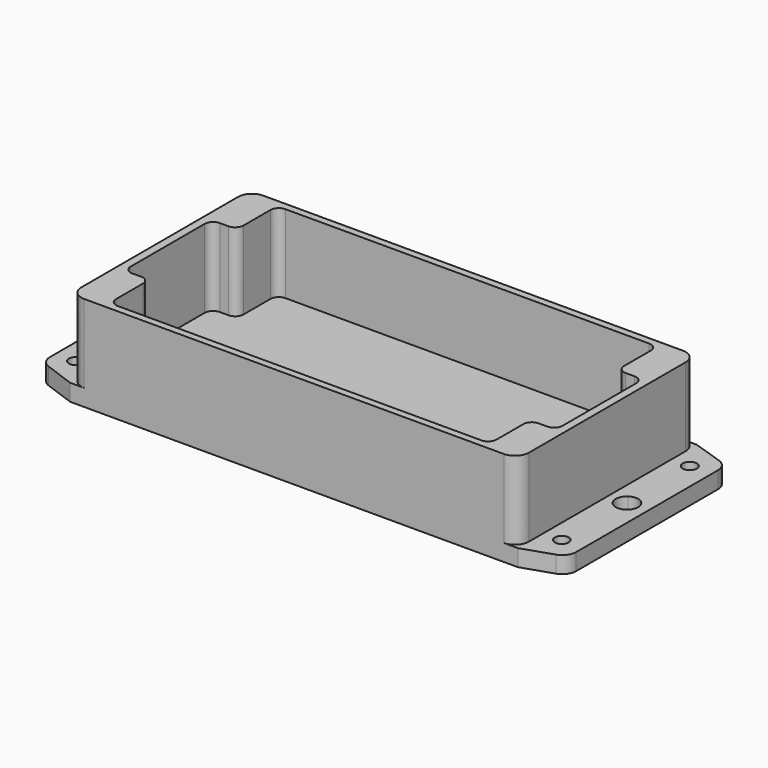
from build123d import *

# Parameters (mm, degrees)
F0_R     = 2.4734326525
F0_R_2   = 2.5209595833
F1_DEPTH = 6
F2_DEPTH = 34
F3_DEPTH = 6


with BuildPart() as f1:
    # F0 (on Top) → F1 (new body)
    with BuildSketch(Plane.XY):
        with BuildLine():
            ThreePointArc((80, 35), (78.5355339059, 38.5355339059), (75, 40))
            Line((75, 40), (-75, 40))
            ThreePointArc((-75, 40), (-78.5355339059, 38.5355339059), (-80, 35))
            Line((-80, 35), (-80, -35))
            ThreePointArc((-80, -35), (-78.5355339059, -38.5355339059), (-75, -40))
            Line((-75, -40), (75, -40))
            ThreePointArc((75, -40), (78.5355339059, -38.5355339059), (80, -35))
            Line((80, -35), (80, 35))
        make_face()
        with BuildLine():
            ThreePointArc((-68, 34.4683335721), (-67.1213203436, 36.5896539157), (-65, 37.4683335721))
            Line((-65, 37.4683335721), (0, 37.4683335721))
            Line((0, 37.4683335721), (65, 37.4683335721))
            ThreePointArc((65, 37.4683335721), (67.1213203436, 36.5896539157), (68, 34.4683335721))
            Line((68, 34.4683335721), (68, 22.4683335721))
            ThreePointArc((68, 22.4683335721), (68.8786796564, 20.3470132286), (71, 19.4683335721))
            Line((71, 19.4683335721), (74.1739631891, 19.4683335721))
            ThreePointArc((74.1739631891, 19.4683335721), (76.2952835327, 18.5896539157), (77.1739631891, 16.4683335721))
            Line((77.1739631891, 16.4683335721), (77.1739631891, -16.4851338565))
            ThreePointArc((77.1739631891, -16.4851338565), (76.2952835327, -18.6064542001), (74.1739631891, -19.4851338565))
            Line((74.1739631891, -19.4851338565), (71, -19.4851338565))
            ThreePointArc((71, -19.4851338565), (68.8786796564, -20.363813513), (68, -22.4851338565))
            Line((68, -22.4851338565), (68, -34.4851338565))
            ThreePointArc((68, -34.4851338565), (67.1213203436, -36.6064542001), (65, -37.4851338565))
            Line((65, -37.4851338565), (0, -37.4851338565))
            Line((0, -37.4851338565), (-65, -37.4851338565))
            ThreePointArc((-65, -37.4851338565), (-67.1213203436, -36.6064542001), (-68, -34.4851338565))
            Line((-68, -34.4851338565), (-68, -22.5461551776))
            ThreePointArc((-68, -22.5461551776), (-68.9001431644, -20.4035863292), (-71.0604008466, -19.5467632829))
            Line((-71.0604008466, -19.5467632829), (-74.0273144216, -19.6065100909))
            ThreePointArc((-74.0273144216, -19.6065100909), (-76.1875721038, -18.7496870446), (-77.0877152681, -16.6071181963))
            Line((-77.0877152681, -16.6071181963), (-77.0877152681, 16.4683335721))
            ThreePointArc((-77.0877152681, 16.4683335721), (-76.2090356117, 18.5896539157), (-74.0877152681, 19.4683335721))
            Line((-74.0877152681, 19.4683335721), (-71, 19.4683335721))
            ThreePointArc((-71, 19.4683335721), (-68.8786796564, 20.3470132286), (-68, 22.4683335721))
            Line((-68, 22.4683335721), (-68, 34.4683335721))
        make_face(mode=Mode.SUBTRACT)
        with BuildLine():
            Line((80, 40), (75, 40))
            ThreePointArc((75, 40), (78.5355339059, 38.5355339059), (80, 35))
            Line((80, 35), (80, -35))
            ThreePointArc((80, -35), (78.5355339059, -38.5355339059), (75, -40))
            Line((75, -40), (80, -40))
            Line((80, -40), (90.8113707836, -36.4140822894))
            ThreePointArc((90.8113707836, -36.4140822894), (93.2913283913, -34.5948870007), (94.2372945148, -31.6683174512))
            Line((94.2372945148, -31.6683174512), (94.2372945148, 31.6683174512))
            ThreePointArc((94.2372945148, 31.6683174512), (93.2913283913, 34.5948870007), (90.8113707836, 36.4140822894))
            Line((90.8113707836, 36.4140822894), (80, 40))
        make_face()
        with Locations((86.5106463432, -28.475206584)):
            Circle(F0_R, mode=Mode.SUBTRACT)
        with BuildLine():
            ThreePointArc((90.7961837325, 0.3213284013), (90.3221869675, -1.5701075157), (89.0122309327, -3.0144821029))
            ThreePointArc((89.0122309327, -3.0144821029), (86.7853939533, -3.6894613779), (84.5585569739, -3.0144821029))
            ThreePointArc((84.5585569739, -3.0144821029), (82.7746041741, 0.3213284013), (84.5585569739, 3.6571389056))
            ThreePointArc((84.5585569739, 3.6571389056), (86.7853939533, 4.3321181805), (89.0122309327, 3.6571389056))
            ThreePointArc((89.0122309327, 3.6571389056), (90.3221869675, 2.2127643183), (90.7961837325, 0.3213284013))
        make_face(mode=Mode.SUBTRACT)
        with Locations((86.4890247583, 28.7518498895)):
            Circle(F0_R_2, mode=Mode.SUBTRACT)
        with BuildLine():
            ThreePointArc((-80, 35), (-78.5355339059, 38.5355339059), (-75, 40))
            Line((-75, 40), (-80, 40))
            Line((-80, 40), (-90.8064321274, 36.0946163646))
            ThreePointArc((-90.8064321274, 36.0946163646), (-93.1995248699, 34.2648146936), (-94.1070315729, 31.392272507))
            Line((-94.1070315729, 31.392272507), (-94.1070315729, -31.392272507))
            ThreePointArc((-94.1070315729, -31.392272507), (-93.1995248699, -34.2648146936), (-90.8064321274, -36.0946163646))
            Line((-90.8064321274, -36.0946163646), (-80, -40))
            Line((-80, -40), (-75, -40))
            ThreePointArc((-75, -40), (-78.5355339059, -38.5355339059), (-80, -35))
            Line((-80, -35), (-80, 35))
        make_face()
        with Locations((-86.9296938181, -28.7965349853)):
            Circle(F0_R, mode=Mode.SUBTRACT)
        with BuildLine():
            ThreePointArc((-84.4281092286, -8.2794375271), (-85.0138956662, -9.6936510894), (-86.4281092286, -10.2794375271))
            Line((-86.4281092286, -10.2794375271), (-86.8817831874, -10.2794375271))
            ThreePointArc((-86.8817831874, -10.2794375271), (-88.2959967498, -9.6936510894), (-88.8817831874, -8.2794375271))
            Line((-88.8817831874, -8.2794375271), (-88.8817831874, -3.3358105042))
            ThreePointArc((-88.8817831874, -3.3358105042), (-90.6657359872, 0), (-88.8817831874, 3.3358105042))
            Line((-88.8817831874, 3.3358105042), (-88.8817831874, 8.2794375271))
            ThreePointArc((-88.8817831874, 8.2794375271), (-88.2959967498, 9.6936510894), (-86.8817831874, 10.2794375271))
            Line((-86.8817831874, 10.2794375271), (-86.4281092286, 10.2794375271))
            ThreePointArc((-86.4281092286, 10.2794375271), (-85.0138956662, 9.6936510894), (-84.4281092286, 8.2794375271))
            Line((-84.4281092286, 8.2794375271), (-84.4281092286, 3.3358105042))
            ThreePointArc((-84.4281092286, 3.3358105042), (-83.1181531938, 1.891435917), (-82.6441564288, 0))
            ThreePointArc((-82.6441564288, 0), (-83.1181531938, -1.891435917), (-84.4281092286, -3.3358105042))
            Line((-84.4281092286, -3.3358105042), (-84.4281092286, -8.2794375271))
        make_face(mode=Mode.SUBTRACT)
        with Locations((-86.951315403, 28.4305214882)):
            Circle(F0_R_2, mode=Mode.SUBTRACT)
    extrude(amount=F1_DEPTH)

    # F0 (on Top) → F2 (join)
    with BuildSketch(Plane.XY):
        with BuildLine():
            ThreePointArc((80, 35), (78.5355339059, 38.5355339059), (75, 40))
            Line((75, 40), (-75, 40))
            ThreePointArc((-75, 40), (-78.5355339059, 38.5355339059), (-80, 35))
            Line((-80, 35), (-80, -35))
            ThreePointArc((-80, -35), (-78.5355339059, -38.5355339059), (-75, -40))
            Line((-75, -40), (75, -40))
            ThreePointArc((75, -40), (78.5355339059, -38.5355339059), (80, -35))
            Line((80, -35), (80, 35))
        make_face()
        with BuildLine():
            ThreePointArc((-68, 34.4683335721), (-67.1213203436, 36.5896539157), (-65, 37.4683335721))
            Line((-65, 37.4683335721), (0, 37.4683335721))
            Line((0, 37.4683335721), (65, 37.4683335721))
            ThreePointArc((65, 37.4683335721), (67.1213203436, 36.5896539157), (68, 34.4683335721))
            Line((68, 34.4683335721), (68, 22.4683335721))
            ThreePointArc((68, 22.4683335721), (68.8786796564, 20.3470132286), (71, 19.4683335721))
            Line((71, 19.4683335721), (74.1739631891, 19.4683335721))
            ThreePointArc((74.1739631891, 19.4683335721), (76.2952835327, 18.5896539157), (77.1739631891, 16.4683335721))
            Line((77.1739631891, 16.4683335721), (77.1739631891, -16.4851338565))
            ThreePointArc((77.1739631891, -16.4851338565), (76.2952835327, -18.6064542001), (74.1739631891, -19.4851338565))
            Line((74.1739631891, -19.4851338565), (71, -19.4851338565))
            ThreePointArc((71, -19.4851338565), (68.8786796564, -20.363813513), (68, -22.4851338565))
            Line((68, -22.4851338565), (68, -34.4851338565))
            ThreePointArc((68, -34.4851338565), (67.1213203436, -36.6064542001), (65, -37.4851338565))
            Line((65, -37.4851338565), (0, -37.4851338565))
            Line((0, -37.4851338565), (-65, -37.4851338565))
            ThreePointArc((-65, -37.4851338565), (-67.1213203436, -36.6064542001), (-68, -34.4851338565))
            Line((-68, -34.4851338565), (-68, -22.5461551776))
            ThreePointArc((-68, -22.5461551776), (-68.9001431644, -20.4035863292), (-71.0604008466, -19.5467632829))
            Line((-71.0604008466, -19.5467632829), (-74.0273144216, -19.6065100909))
            ThreePointArc((-74.0273144216, -19.6065100909), (-76.1875721038, -18.7496870446), (-77.0877152681, -16.6071181963))
            Line((-77.0877152681, -16.6071181963), (-77.0877152681, 16.4683335721))
            ThreePointArc((-77.0877152681, 16.4683335721), (-76.2090356117, 18.5896539157), (-74.0877152681, 19.4683335721))
            Line((-74.0877152681, 19.4683335721), (-71, 19.4683335721))
            ThreePointArc((-71, 19.4683335721), (-68.8786796564, 20.3470132286), (-68, 22.4683335721))
            Line((-68, 22.4683335721), (-68, 34.4683335721))
        make_face(mode=Mode.SUBTRACT)
    extrude(amount=F2_DEPTH)

    # F0 (on Top) → F3 (join)
    with BuildSketch(Plane.XY):
        with BuildLine():
            ThreePointArc((80, 35), (78.5355339059, 38.5355339059), (75, 40))
            Line((75, 40), (-75, 40))
            ThreePointArc((-75, 40), (-78.5355339059, 38.5355339059), (-80, 35))
            Line((-80, 35), (-80, -35))
            ThreePointArc((-80, -35), (-78.5355339059, -38.5355339059), (-75, -40))
            Line((-75, -40), (75, -40))
            ThreePointArc((75, -40), (78.5355339059, -38.5355339059), (80, -35))
            Line((80, -35), (80, 35))
        make_face()
        with BuildLine():
            ThreePointArc((-68, 34.4683335721), (-67.1213203436, 36.5896539157), (-65, 37.4683335721))
            Line((-65, 37.4683335721), (0, 37.4683335721))
            Line((0, 37.4683335721), (65, 37.4683335721))
            ThreePointArc((65, 37.4683335721), (67.1213203436, 36.5896539157), (68, 34.4683335721))
            Line((68, 34.4683335721), (68, 22.4683335721))
            ThreePointArc((68, 22.4683335721), (68.8786796564, 20.3470132286), (71, 19.4683335721))
            Line((71, 19.4683335721), (74.1739631891, 19.4683335721))
            ThreePointArc((74.1739631891, 19.4683335721), (76.2952835327, 18.5896539157), (77.1739631891, 16.4683335721))
            Line((77.1739631891, 16.4683335721), (77.1739631891, -16.4851338565))
            ThreePointArc((77.1739631891, -16.4851338565), (76.2952835327, -18.6064542001), (74.1739631891, -19.4851338565))
            Line((74.1739631891, -19.4851338565), (71, -19.4851338565))
            ThreePointArc((71, -19.4851338565), (68.8786796564, -20.363813513), (68, -22.4851338565))
            Line((68, -22.4851338565), (68, -34.4851338565))
            ThreePointArc((68, -34.4851338565), (67.1213203436, -36.6064542001), (65, -37.4851338565))
            Line((65, -37.4851338565), (0, -37.4851338565))
            Line((0, -37.4851338565), (-65, -37.4851338565))
            ThreePointArc((-65, -37.4851338565), (-67.1213203436, -36.6064542001), (-68, -34.4851338565))
            Line((-68, -34.4851338565), (-68, -22.5461551776))
            ThreePointArc((-68, -22.5461551776), (-68.9001431644, -20.4035863292), (-71.0604008466, -19.5467632829))
            Line((-71.0604008466, -19.5467632829), (-74.0273144216, -19.6065100909))
            ThreePointArc((-74.0273144216, -19.6065100909), (-76.1875721038, -18.7496870446), (-77.0877152681, -16.6071181963))
            Line((-77.0877152681, -16.6071181963), (-77.0877152681, 16.4683335721))
            ThreePointArc((-77.0877152681, 16.4683335721), (-76.2090356117, 18.5896539157), (-74.0877152681, 19.4683335721))
            Line((-74.0877152681, 19.4683335721), (-71, 19.4683335721))
            ThreePointArc((-71, 19.4683335721), (-68.8786796564, 20.3470132286), (-68, 22.4683335721))
            Line((-68, 22.4683335721), (-68, 34.4683335721))
        make_face(mode=Mode.SUBTRACT)
        with BuildLine():
            Line((0, 37.4683335721), (-65, 37.4683335721))
            ThreePointArc((-65, 37.4683335721), (-67.1213203436, 36.5896539157), (-68, 34.4683335721))
            Line((-68, 34.4683335721), (-68, 22.4683335721))
            ThreePointArc((-68, 22.4683335721), (-68.8786796564, 20.3470132286), (-71, 19.4683335721))
            Line((-71, 19.4683335721), (-74.0877152681, 19.4683335721))
            ThreePointArc((-74.0877152681, 19.4683335721), (-76.2090356117, 18.5896539157), (-77.0877152681, 16.4683335721))
            Line((-77.0877152681, 16.4683335721), (-77.0877152681, -16.6071181963))
            ThreePointArc((-77.0877152681, -16.6071181963), (-76.1875721038, -18.7496870446), (-74.0273144216, -19.6065100909))
            Line((-74.0273144216, -19.6065100909), (-71.0604008466, -19.5467632829))
            ThreePointArc((-71.0604008466, -19.5467632829), (-68.9001431644, -20.4035863292), (-68, -22.5461551776))
            Line((-68, -22.5461551776), (-68, -34.4851338565))
            ThreePointArc((-68, -34.4851338565), (-67.1213203436, -36.6064542001), (-65, -37.4851338565))
            Line((-65, -37.4851338565), (0, -37.4851338565))
            Line((0, -37.4851338565), (65, -37.4851338565))
            ThreePointArc((65, -37.4851338565), (67.1213203436, -36.6064542001), (68, -34.4851338565))
            Line((68, -34.4851338565), (68, -22.4851338565))
            ThreePointArc((68, -22.4851338565), (68.8786796564, -20.363813513), (71, -19.4851338565))
            Line((71, -19.4851338565), (74.1739631891, -19.4851338565))
            ThreePointArc((74.1739631891, -19.4851338565), (76.2952835327, -18.6064542001), (77.1739631891, -16.4851338565))
            Line((77.1739631891, -16.4851338565), (77.1739631891, 16.4683335721))
            ThreePointArc((77.1739631891, 16.4683335721), (76.2952835327, 18.5896539157), (74.1739631891, 19.4683335721))
            Line((74.1739631891, 19.4683335721), (71, 19.4683335721))
            ThreePointArc((71, 19.4683335721), (68.8786796564, 20.3470132286), (68, 22.4683335721))
            Line((68, 22.4683335721), (68, 34.4683335721))
            ThreePointArc((68, 34.4683335721), (67.1213203436, 36.5896539157), (65, 37.4683335721))
            Line((65, 37.4683335721), (0, 37.4683335721))
        make_face()
        with BuildLine():
            Line((80, 40), (75, 40))
            ThreePointArc((75, 40), (78.5355339059, 38.5355339059), (80, 35))
            Line((80, 35), (80, -35))
            ThreePointArc((80, -35), (78.5355339059, -38.5355339059), (75, -40))
            Line((75, -40), (80, -40))
            Line((80, -40), (90.8113707836, -36.4140822894))
            ThreePointArc((90.8113707836, -36.4140822894), (93.2913283913, -34.5948870007), (94.2372945148, -31.6683174512))
            Line((94.2372945148, -31.6683174512), (94.2372945148, 31.6683174512))
            ThreePointArc((94.2372945148, 31.6683174512), (93.2913283913, 34.5948870007), (90.8113707836, 36.4140822894))
            Line((90.8113707836, 36.4140822894), (80, 40))
        make_face()
        with Locations((86.5106463432, -28.475206584)):
            Circle(F0_R, mode=Mode.SUBTRACT)
        with BuildLine():
            ThreePointArc((90.7961837325, 0.3213284013), (90.3221869675, -1.5701075157), (89.0122309327, -3.0144821029))
            ThreePointArc((89.0122309327, -3.0144821029), (86.7853939533, -3.6894613779), (84.5585569739, -3.0144821029))
            ThreePointArc((84.5585569739, -3.0144821029), (82.7746041741, 0.3213284013), (84.5585569739, 3.6571389056))
            ThreePointArc((84.5585569739, 3.6571389056), (86.7853939533, 4.3321181805), (89.0122309327, 3.6571389056))
            ThreePointArc((89.0122309327, 3.6571389056), (90.3221869675, 2.2127643183), (90.7961837325, 0.3213284013))
        make_face(mode=Mode.SUBTRACT)
        with Locations((86.4890247583, 28.7518498895)):
            Circle(F0_R_2, mode=Mode.SUBTRACT)
        with BuildLine():
            ThreePointArc((-80, 35), (-78.5355339059, 38.5355339059), (-75, 40))
            Line((-75, 40), (-80, 40))
            Line((-80, 40), (-90.8064321274, 36.0946163646))
            ThreePointArc((-90.8064321274, 36.0946163646), (-93.1995248699, 34.2648146936), (-94.1070315729, 31.392272507))
            Line((-94.1070315729, 31.392272507), (-94.1070315729, -31.392272507))
            ThreePointArc((-94.1070315729, -31.392272507), (-93.1995248699, -34.2648146936), (-90.8064321274, -36.0946163646))
            Line((-90.8064321274, -36.0946163646), (-80, -40))
            Line((-80, -40), (-75, -40))
            ThreePointArc((-75, -40), (-78.5355339059, -38.5355339059), (-80, -35))
            Line((-80, -35), (-80, 35))
        make_face()
        with Locations((-86.9296938181, -28.7965349853)):
            Circle(F0_R, mode=Mode.SUBTRACT)
        with BuildLine():
            ThreePointArc((-84.4281092286, -8.2794375271), (-85.0138956662, -9.6936510894), (-86.4281092286, -10.2794375271))
            Line((-86.4281092286, -10.2794375271), (-86.8817831874, -10.2794375271))
            ThreePointArc((-86.8817831874, -10.2794375271), (-88.2959967498, -9.6936510894), (-88.8817831874, -8.2794375271))
            Line((-88.8817831874, -8.2794375271), (-88.8817831874, -3.3358105042))
            ThreePointArc((-88.8817831874, -3.3358105042), (-90.6657359872, 0), (-88.8817831874, 3.3358105042))
            Line((-88.8817831874, 3.3358105042), (-88.8817831874, 8.2794375271))
            ThreePointArc((-88.8817831874, 8.2794375271), (-88.2959967498, 9.6936510894), (-86.8817831874, 10.2794375271))
            Line((-86.8817831874, 10.2794375271), (-86.4281092286, 10.2794375271))
            ThreePointArc((-86.4281092286, 10.2794375271), (-85.0138956662, 9.6936510894), (-84.4281092286, 8.2794375271))
            Line((-84.4281092286, 8.2794375271), (-84.4281092286, 3.3358105042))
            ThreePointArc((-84.4281092286, 3.3358105042), (-83.1181531938, 1.891435917), (-82.6441564288, 0))
            ThreePointArc((-82.6441564288, 0), (-83.1181531938, -1.891435917), (-84.4281092286, -3.3358105042))
            Line((-84.4281092286, -3.3358105042), (-84.4281092286, -8.2794375271))
        make_face(mode=Mode.SUBTRACT)
        with Locations((-86.951315403, 28.4305214882)):
            Circle(F0_R_2, mode=Mode.SUBTRACT)
    extrude(amount=F3_DEPTH)


solid = f1.part
